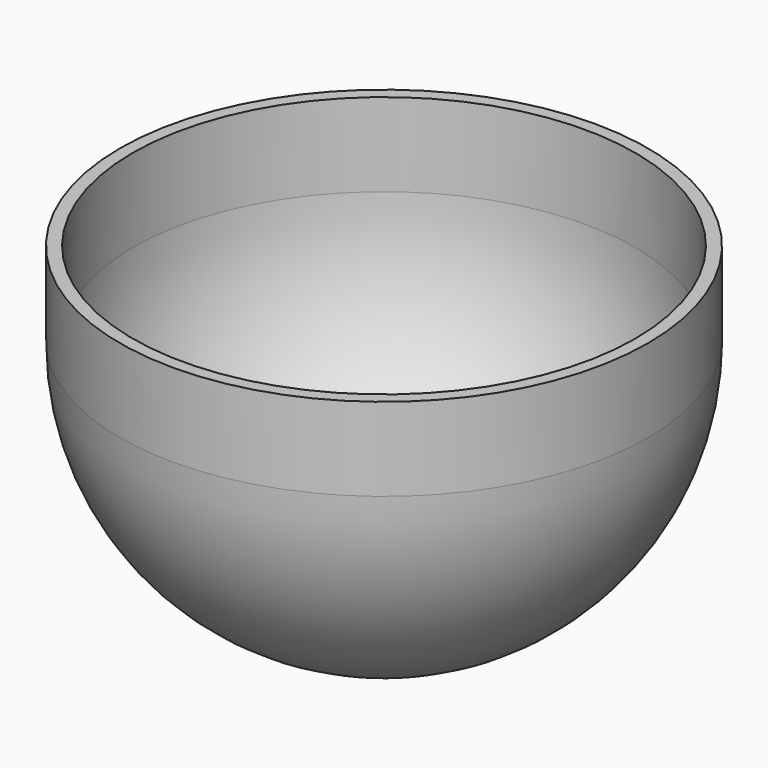
from build123d import *

# Parameters (mm, degrees)
F0_W = 1.5
F0_H = 9.9355725646


with BuildPart() as f1:
    # F0 (on Front) → F1 (revolve)
    with BuildSketch(Plane.XZ):
        with BuildLine():
            Line((0, 3), (0, 1.5))
            ThreePointArc((0, 1.5), (22.2738636074, 10.7261363926), (31.5, 33))
            Line((31.5, 33), (30, 33))
            ThreePointArc((30, 33), (21.2132034356, 11.7867965644), (0, 3))
        make_face()
        with Locations((30.75, 37.9677862823)):
            Rectangle(F0_W, F0_H)
    revolve(axis=Axis((0, 0, 54), (0, 0, -1)))


solid = f1.part
